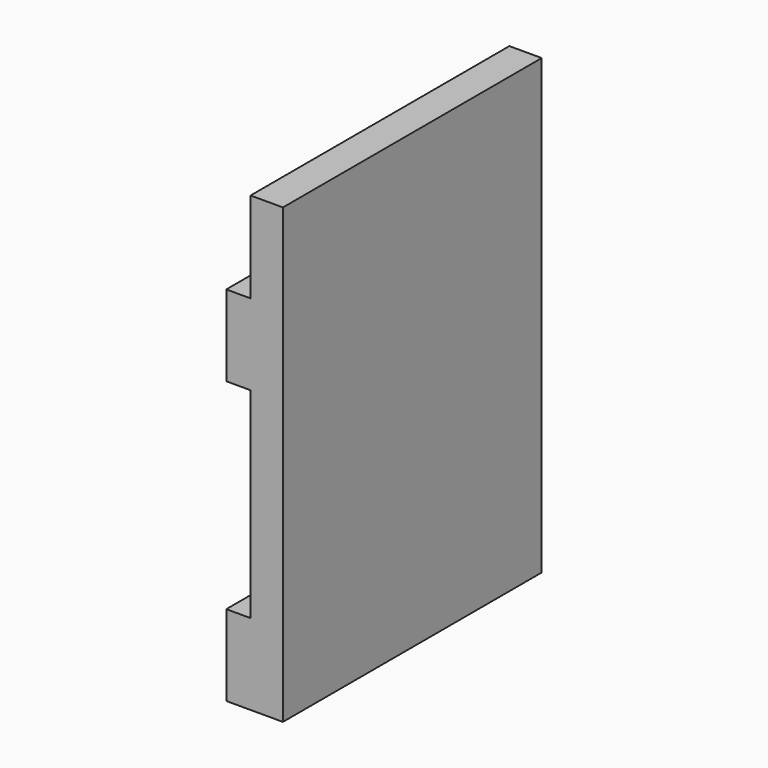
from build123d import *

# Parameters (mm, degrees)
F0_W     = 20
F0_H     = 280
F1_DEPTH = 200
F2_W     = 15
F2_H     = 50
F3_DEPTH = 200


with BuildPart() as f1:
    # F0 (on Front) → F1 (new body)
    with BuildSketch(Plane.XZ):
        with Locations((-38.351807, 108.504876)):
            Rectangle(F0_W, F0_H)
    extrude(amount=-F1_DEPTH)

    # F2 (on face) → F3 (join)
    with BuildSketch(Plane.XZ):
        with Locations((-55.851807, 167.504876)):
            Rectangle(F2_W, F2_H)
        with Locations((-55.851807, -6.495124)):
            Rectangle(F2_W, F2_H)
    extrude(amount=-F3_DEPTH)


solid = f1.part
